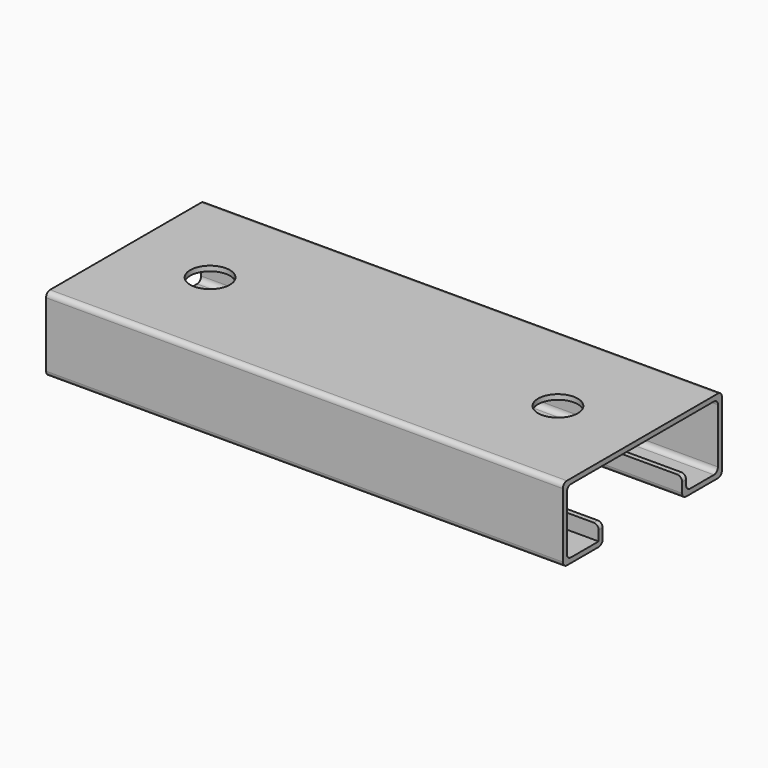
from build123d import *

# Parameters (mm, degrees)
F1_DEPTH = 52
F2_R     = 4
F3_DEPTH = 12.5
F4_R     = 1
F5_R     = 1
F6_R     = 1


with BuildPart() as f1:
    # F0 (on Right) → F1 (new body, symmetric)
    with BuildSketch(Plane.YZ):
        Polygon((20, 0), (-20, 0), (-20, -15), (-10, -15), (-10, -11), (-11, -11), (-11, -14), (-19, -14), (-19, -1), (19, -1), (19, -14), (11, -14), (11, -11), (10, -11), (10, -15), (20, -15), align=None)
        Polygon((20, 0), (-20, 0), (-20, -15), (-10, -15), (-10, -11), (-11, -11), (-11, -14), (-19, -14), (-19, -1), (19, -1), (19, -14), (11, -14), (11, -11), (10, -11), (10, -15), (20, -15), align=None)
    extrude(amount=F1_DEPTH, both=True)

    # F2 (on Top) → F3 (cut, symmetric)
    with BuildSketch(Plane.XY):
        with Locations((-35, 0)):
            Circle(F2_R)
        with Locations((35, 0)):
            Circle(F2_R)
    extrude(amount=F3_DEPTH, both=True, mode=Mode.SUBTRACT)

    # F4
    f4_edges = [f1.edges().sort_by_distance(p)[0] for p in [
        (0, -20, -15),
        (0, -20, 0),
        (0, -10, -15),
        (0, 10, -15),
        (0, 20, -15),
        (0, 20, 0),
        (0, 19, -14),
        (0, -19, -14),
    ]]
    fillet(f4_edges, radius=F4_R)

    # F5
    f5_edges = [f1.edges().sort_by_distance(p)[0] for p in [
        (0, 11, -14),
        (0, 19, -1),
        (0, -19, -1),
    ]]
    fillet(f5_edges, radius=F5_R)

    # F6
    f6_edges = [f1.edges().sort_by_distance(p)[0] for p in [
        (52, -10.5, -11),
        (52, 10.5, -11),
        (-52, 10.5, -11),
        (-52, -10.5, -11),
    ]]
    fillet(f6_edges, radius=F6_R)


solid = f1.part
